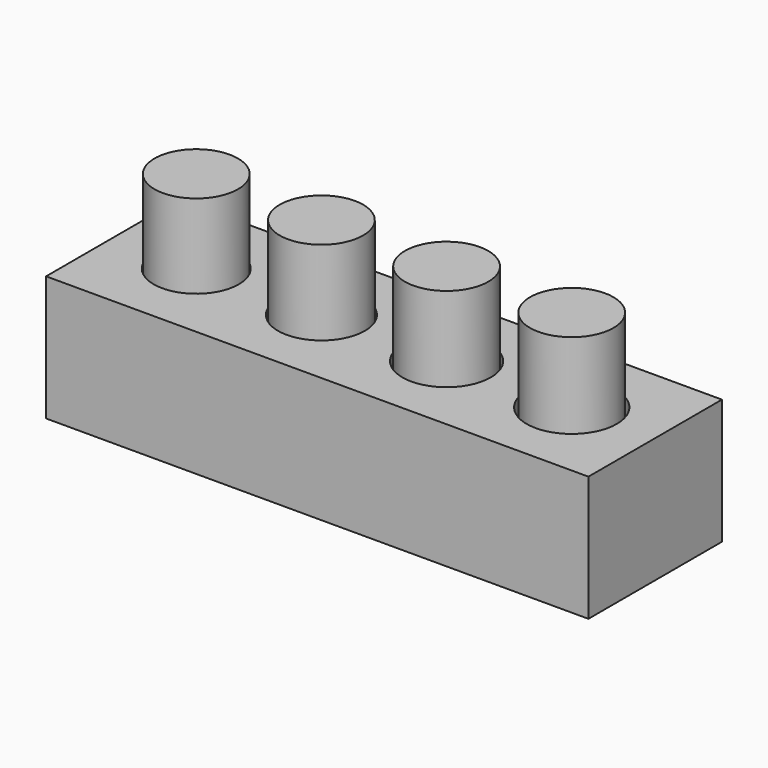
from build123d import *

# Parameters (mm, degrees)
F0_W     = 65
F0_H     = 20
F0_R     = 5.1
F0_R_2   = 5.2
F0_R_3   = 5.3
F0_R_4   = 5.4
F1_DEPTH = 15
F0_R_5   = 5
F2_DEPTH = 25


with BuildPart() as f1:
    # F0 (on Top) → F1 (new body)
    with BuildSketch(Plane.XY):
        with Locations((22.5, 0)):
            Rectangle(F0_W, F0_H)
        Circle(F0_R, mode=Mode.SUBTRACT)
        with Locations((15, 0)):
            Circle(F0_R_2, mode=Mode.SUBTRACT)
        with Locations((30, 0)):
            Circle(F0_R_3, mode=Mode.SUBTRACT)
        with Locations((45, 0)):
            Circle(F0_R_4, mode=Mode.SUBTRACT)
    extrude(amount=F1_DEPTH)


with BuildPart() as f2:
    # F0 (on Top) → F2 (new body)
    with BuildSketch(Plane.XY):
        Circle(F0_R_5)
        with Locations((15, 0)):
            Circle(F0_R_5)
        with Locations((30, 0)):
            Circle(F0_R_5)
        with Locations((45, 0)):
            Circle(F0_R_5)
    extrude(amount=F2_DEPTH)


solid = Compound([f1.part, f2.part])
